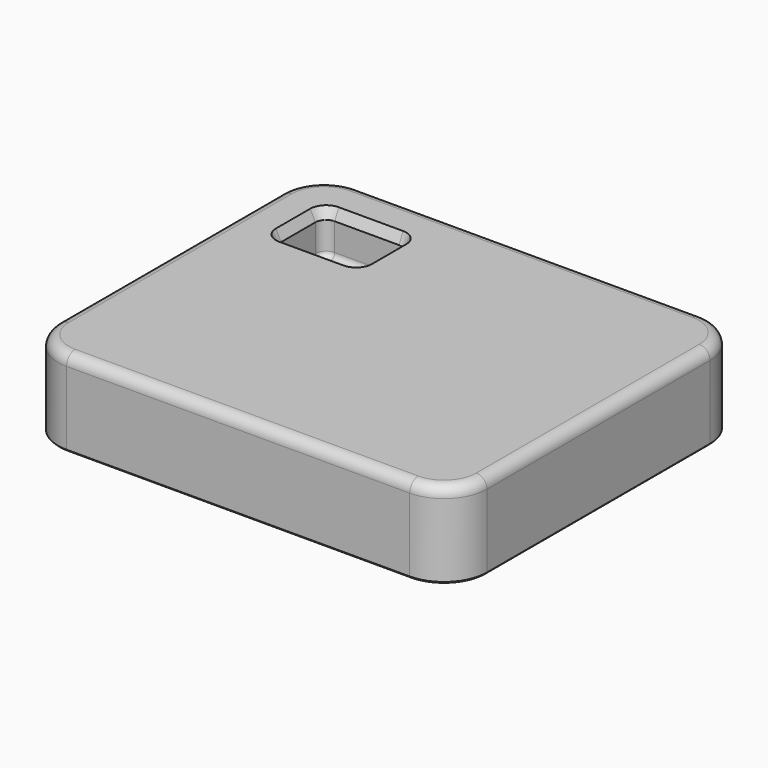
from build123d import *

# Parameters (mm, degrees)
F0_W     = 127
F0_H     = 107.95
F1_DEPTH = 25.4
F2_W     = 25.4
F2_H     = 19.05
F3_DEPTH = 12.7
F4_R     = 3.175
F5_R     = 1.524
F6_R     = 12.7
F7_R     = 3.175
F8_SIZE  = 0.508
F9_SIZE2 = 3.048
F9_SIZE  = 1.524


with BuildPart() as f1:
    # F0 (on Top) → F1 (new body)
    with BuildSketch(Plane.XY):
        Rectangle(F0_W, F0_H)
    extrude(amount=F1_DEPTH)

    # F2 (on face) → F3 (cut)
    with BuildSketch(Plane.XY.offset(25.4)):
        with Locations((-38.1, 31.75)):
            Rectangle(F2_W, F2_H)
    extrude(amount=-F3_DEPTH, mode=Mode.SUBTRACT)

    # F4
    f4_edges = [f1.edges().sort_by_distance(p)[0] for p in [
        (-50.8, 41.275, 19.05),
        (-50.8, 22.225, 19.05),
        (-25.4, 22.225, 19.05),
        (-25.4, 41.275, 19.05),
    ]]
    fillet(f4_edges, radius=F4_R)

    # F5
    f5_edges = [f1.edges().sort_by_distance(p)[0] for p in [
        (-38.1, 22.225, 12.7),
    ]]
    fillet(f5_edges, radius=F5_R)

    # F6
    f6_edges = [f1.edges().sort_by_distance(p)[0] for p in [
        (63.5, -53.975, 12.7),
        (63.5, 53.975, 12.7),
        (-63.5, -53.975, 12.7),
        (-63.5, 53.975, 12.7),
    ]]
    fillet(f6_edges, radius=F6_R)

    # F7
    f7_edges = [f1.edges().sort_by_distance(p)[0] for p in [
        (0, -53.975, 25.4),
    ]]
    fillet(f7_edges, radius=F7_R)

    # F8
    f8_edges = [f1.edges().sort_by_distance(p)[0] for p in [
        (0, -53.975, 0),
    ]]
    chamfer(f8_edges, length=F8_SIZE)

    # F9
    f9_edges = [f1.edges().sort_by_distance(p)[0] for p in [
        (-38.1, 41.275, 25.4),
        (-50.8, 38.1, 19.812),
        (-50.8, 31.75, 14.224),
        (-50.8, 31.75, 25.4),
        (-50.8, 25.4, 19.812),
        (-47.625, 41.275, 19.812),
        (-49.870064, 40.345064, 14.224),
        (-49.870064, 40.345064, 25.4),
        (-28.575, 41.275, 19.812),
        (-38.1, 41.275, 14.224),
        (-26.329936, 40.345064, 14.224),
        (-26.329936, 40.345064, 25.4),
        (-25.4, 38.1, 19.812),
        (-25.4, 25.4, 19.812),
        (-25.4, 31.75, 14.224),
        (-25.4, 31.75, 25.4),
        (-26.329936, 23.154936, 14.224),
        (-47.625, 22.225, 19.812),
        (-38.1, 22.225, 14.224),
        (-38.1, 22.225, 25.4),
        (-28.575, 22.225, 19.812),
        (-49.870064, 23.154936, 14.224),
        (-49.870064, 23.154936, 25.4),
    ]]
    chamfer(f9_edges, length=F9_SIZE, length2=F9_SIZE2)


solid = f1.part
